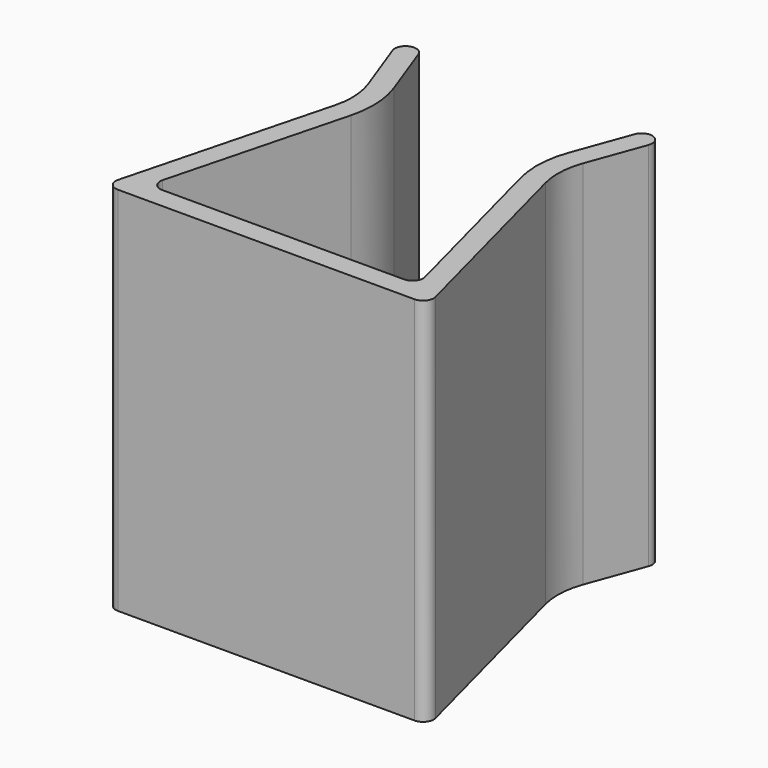
from build123d import *

# Parameters (mm, degrees)
F1_DEPTH = 88.9


with BuildPart() as f1:
    # F0 (on Top) → F1 (new body)
    with BuildSketch(Plane.XY):
        with BuildLine():
            Line((-35.56, 0), (0, 0))
            Line((0, 0), (35.56, 0))
            ThreePointArc((35.56, 0), (37.570369, 0.987577), (38.017435, 3.182348))
            Line((38.017435, 3.182348), (25.234871, 52.084696))
            ThreePointArc((25.234871, 52.084696), (24.6769, 57.423813), (25.737889, 62.686113))
            Line((25.737889, 62.686113), (30.689125, 76.229293))
            ThreePointArc((30.689125, 76.229293), (29.17569, 79.487009), (25.917974, 77.973574))
            Line((25.917974, 77.973574), (20.966737, 64.430393))
            ThreePointArc((20.966737, 64.430393), (19.602608, 57.664578), (20.32, 50.8))
            Line((20.32, 50.8), (31.438899, 8.262348))
            ThreePointArc((31.438899, 8.262348), (30.991832, 6.067577), (28.981464, 5.08))
            Line((28.981464, 5.08), (0, 5.08))
            Line((0, 5.08), (-28.981464, 5.08))
            ThreePointArc((-28.981464, 5.08), (-30.991832, 6.067577), (-31.438899, 8.262348))
            Line((-31.438899, 8.262348), (-20.32, 50.8))
            ThreePointArc((-20.32, 50.8), (-19.602608, 57.664578), (-20.966737, 64.430393))
            Line((-20.966737, 64.430393), (-25.917974, 77.973574))
            ThreePointArc((-25.917974, 77.973574), (-29.17569, 79.487009), (-30.689125, 76.229293))
            Line((-30.689125, 76.229293), (-25.737889, 62.686113))
            ThreePointArc((-25.737889, 62.686113), (-24.6769, 57.423813), (-25.234871, 52.084696))
            Line((-25.234871, 52.084696), (-38.017435, 3.182348))
            ThreePointArc((-38.017435, 3.182348), (-37.570369, 0.987577), (-35.56, 0))
        make_face()
    extrude(amount=F1_DEPTH)


solid = f1.part
